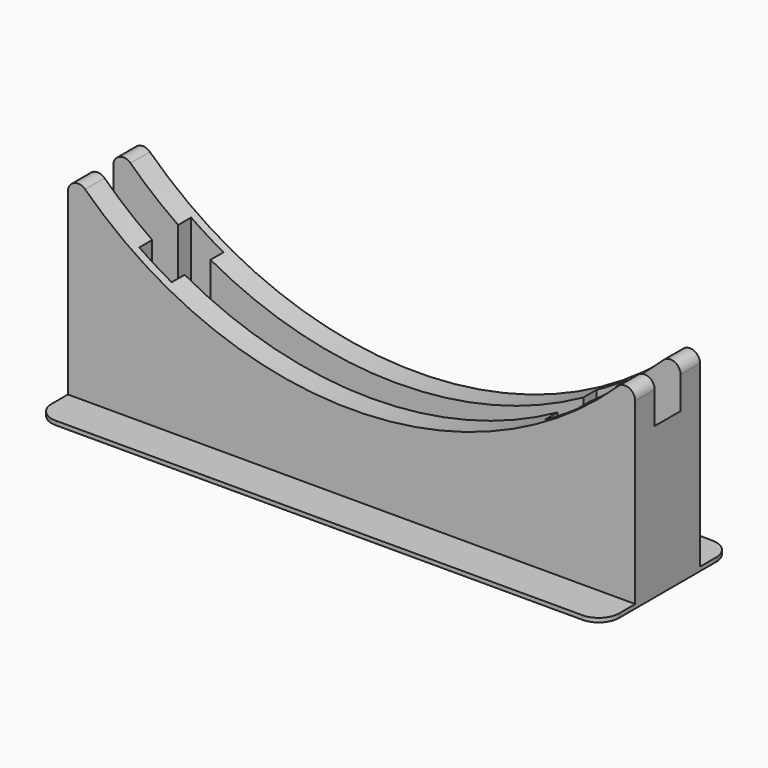
from build123d import *

# Parameters (mm, degrees)
F1_DEPTH      = 10
F2_R          = 105
F3_DEPTH      = 4
F3_DEPTH_BACK = 4
F4_R          = 2.5
F6_DEPTH      = 4
F8_START      = -2
F8_DEPTH      = 16
F9_W          = 140
F9_H          = 40
F10_DEPTH     = 0.5
F11_R         = 5


with BuildPart() as f1:
    # F0 (on Front) → F1 (new body, symmetric)
    with BuildSketch(Plane.XZ):
        with BuildLine():
            Line((-70, 50.7738371067), (-70, 0))
            Line((-70, 0), (70, 0))
            Line((70, 0), (70, 50.7738371067))
            ThreePointArc((70, 50.7738371067), (0, 20), (-70, 50.7738371067))
        make_face()
    extrude(amount=F1_DEPTH, both=True)

    # F2 (on Front) → F3 (cut, two sides)
    with BuildSketch(Plane.XZ) as f3_sk:
        with Locations((0, 115)):
            Circle(F2_R)
    extrude(amount=-F3_DEPTH, mode=Mode.SUBTRACT)
    extrude(f3_sk.sketch, amount=F3_DEPTH_BACK, mode=Mode.SUBTRACT)

    # F4
    f4_edges = [f1.edges().sort_by_distance(p)[0] for p in [
        (-70, 7, 50.773837),
        (-70, -7, 50.773837),
        (70, 7, 50.773837),
        (70, -7, 50.773837),
    ]]
    fillet(f4_edges, radius=F4_R)

    # F5 (on Front) → F6 (cut, symmetric)
    with BuildSketch(Plane.XZ):
        with BuildLine():
            Line((-62, 43.0208363483), (-62, 15.899041377))
            ThreePointArc((-62, 15.899041377), (-50, 3.899041377), (-38, 15.899041377))
            Line((-38, 15.899041377), (-38, 43.0208363483))
            Line((-38, 43.0208363483), (-62, 43.0208363483))
        make_face()
        with BuildLine():
            ThreePointArc((38, 15.899041377), (50, 3.899041377), (62, 15.899041377))
            Line((62, 15.899041377), (62, 43.0208363483))
            Line((62, 43.0208363483), (38, 43.0208363483))
            Line((38, 43.0208363483), (38, 15.899041377))
        make_face()
    extrude(amount=F6_DEPTH, both=True, mode=Mode.SUBTRACT)

    # F7 (on face) → F8 (cut)
    with BuildSketch(Plane.XZ.offset(10).offset(F8_START)):
        with BuildLine():
            Line((-54, 36.8399078813), (-54, 15.899041377))
            ThreePointArc((-54, 15.899041377), (-50, 11.899041377), (-46, 15.899041377))
            Line((-46, 15.899041377), (-46, 36.8399078813))
            Line((-46, 36.8399078813), (-54, 36.8399078813))
        make_face()
        with BuildLine():
            ThreePointArc((46, 15.899041377), (50, 11.899041377), (54, 15.899041377))
            Line((54, 15.899041377), (54, 36.8399078813))
            Line((54, 36.8399078813), (46, 36.8399078813))
            Line((46, 36.8399078813), (46, 15.899041377))
        make_face()
    extrude(amount=-F8_DEPTH, mode=Mode.SUBTRACT)

    # F9 (on Top) → F10 (join, symmetric)
    with BuildSketch(Plane.XY):
        Rectangle(F9_W, F9_H)
    extrude(amount=F10_DEPTH, both=True)

    # F11
    f11_edges = [f1.edges().sort_by_distance(p)[0] for p in [
        (-70, -20, 0),
        (70, -20, 0),
        (70, 20, 0),
        (-70, 20, 0),
    ]]
    fillet(f11_edges, radius=F11_R)


solid = f1.part
